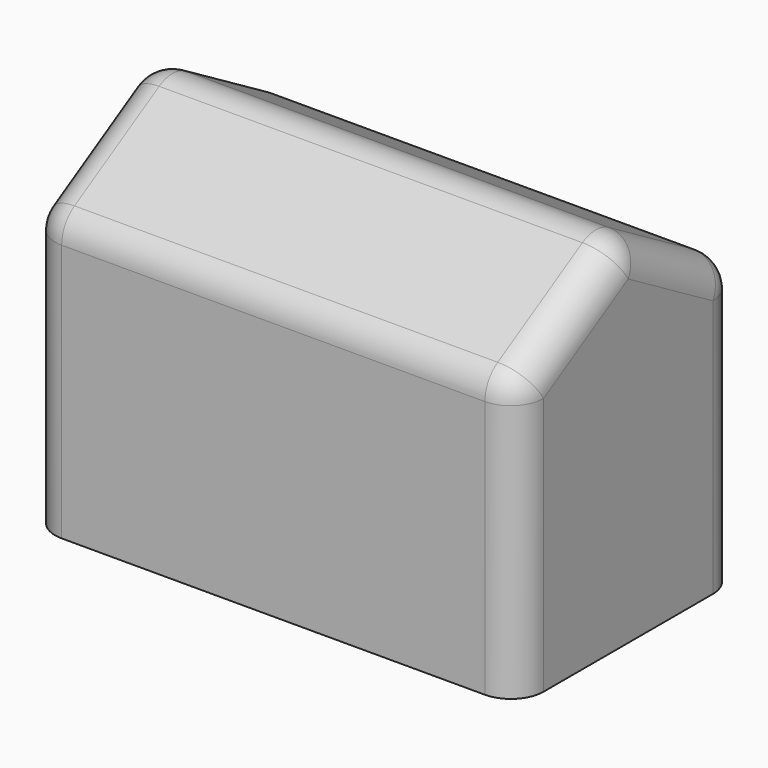
from build123d import *

# Parameters (mm, degrees)
F1_DEPTH = 15
F2_R     = 1


with BuildPart() as f1:
    # F0 (on Right) → F1 (new body)
    with BuildSketch(Plane.YZ):
        Polygon((-4.25, 8.5), (-4.25, 0), (0, 0), (4.25, 0), (4.25, 8.5), (0, 11), align=None)
    extrude(amount=F1_DEPTH)

    # F2
    f2_edges = [f1.edges().sort_by_distance(p)[0] for p in [
        (7.5, -4.25, 8.5),
        (7.5, 0, 11),
        (7.5, 4.25, 8.5),
        (15, 2.125, 9.75),
        (15, -2.125, 9.75),
        (0, 2.125, 9.75),
        (0, -2.125, 9.75),
        (0, -4.25, 4.25),
        (0, 4.25, 4.25),
        (15, -4.25, 4.25),
        (15, 4.25, 4.25),
    ]]
    fillet(f2_edges, radius=F2_R)


solid = f1.part
